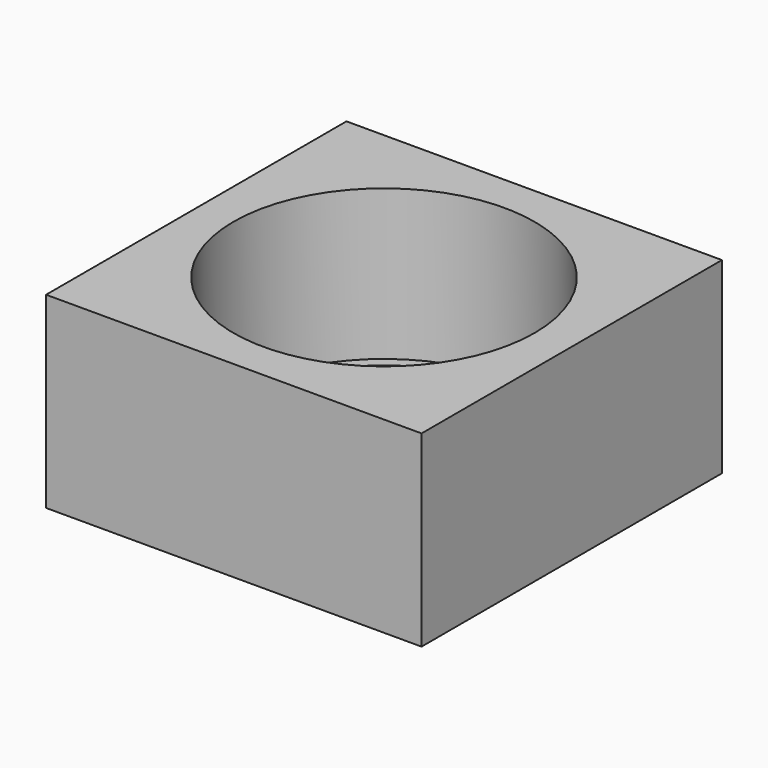
from build123d import *

# Parameters (mm, degrees)
F0_W     = 25.4
F0_H     = 25.4
F1_DEPTH = 12.7
F2_R     = 10.186713
F3_DEPTH = 10.16
F4_R     = 9.458979
F5_DEPTH = 2.54


with BuildPart() as f1:
    # F0 (on Top) → F1 (new body)
    with BuildSketch(Plane.XY):
        with Locations((12.7, -12.7)):
            Rectangle(F0_W, F0_H)
    extrude(amount=F1_DEPTH)

    # F2 (on face) → F3 (cut)
    with BuildSketch(Plane.XY.offset(12.7)):
        with Locations((12.7, -12.7)):
            Circle(F2_R)
    extrude(amount=-F3_DEPTH, mode=Mode.SUBTRACT)

    # F4 (on face) → F5 (cut)
    with BuildSketch(Plane(origin=(0, 0, 0), x_dir=(1, 0, 0), z_dir=(0, 0, -1))):
        with Locations((12.7, 12.7)):
            Circle(F4_R)
        with Locations((12.7, 12.7)):
            Circle(F4_R)
    extrude(amount=-F5_DEPTH, mode=Mode.SUBTRACT)


solid = f1.part
